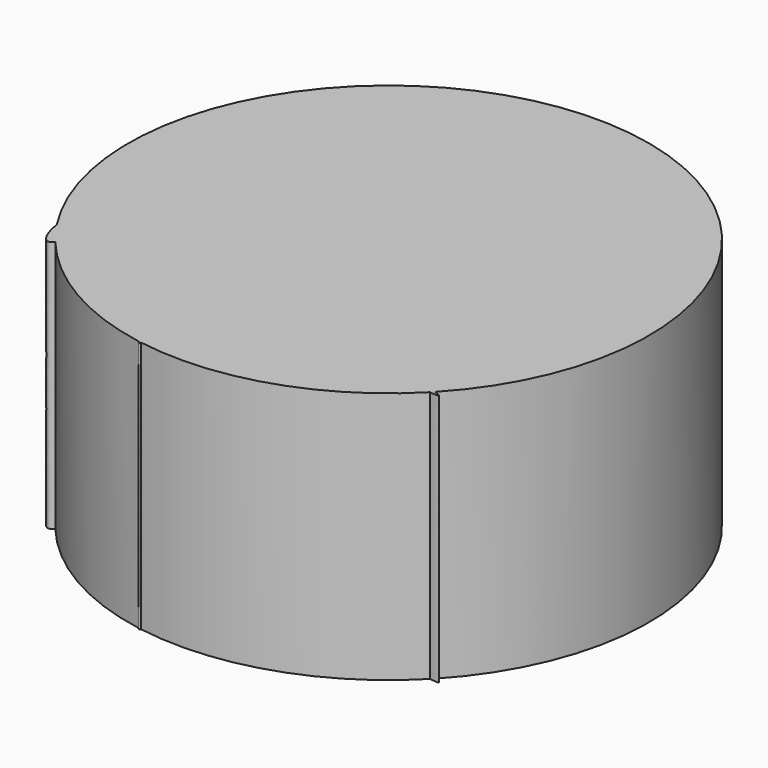
from build123d import *

# Parameters (mm, degrees)
F0_R     = 26.1934474338
F1_DEPTH = 25.4
F3_DEPTH = 25.4


with BuildPart() as f1:
    # F0 (on Top) → F1 (new body)
    with BuildSketch(Plane.XY):
        Circle(F0_R)
    extrude(amount=F1_DEPTH)

    # F2 (on Top) → F3 (join)
    with BuildSketch(Plane.XY):
        with BuildLine():
            add(Edge.make_bspline(
                [(0, 5.7371510193), (1.6267507168, 6.5317427394), (1.5843386729, 11.0500053178), (-18.7787446742, 30.5963069359), (1.0221837778, 10.0953171298), (-6.0703650923, 6.4711935479), (-5.7371528819, 5.7371510193)],
                knots=[0, 0, 0, 0, 0.1511009621, 0.424902673, 0.683029848, 0.8377276017, 0.8377276017, 0.8377276017, 0.8377276017], degree=3))
            Line((-5.7371528819, 5.7371510193), (0, 5.7371510193))
        make_face()
        with BuildLine():
            add(Edge.make_bspline(
                [(-5.7371528819, 5.7371510193), (-5.3876252175, 4.9671667193), (-1.7470222336, 4.8838122825), (0, 5.7371510193)],
                knots=[0.8377276017, 0.8377276017, 0.8377276017, 0.8377276017, 1, 1, 1, 1], degree=3))
            Line((-5.7371528819, 5.7371510193), (-5.7371528819, 4.7594812791))
            add(Edge.make_bspline(
                [(-4.2555169202, 3.7961523049), (-4.6271368693, 4.2676092134), (-5.1324220693, 4.5873594513), (-5.7371528819, 4.7594812791)],
                knots=[0, 0, 0, 0, 0.0403249023, 0.0403249023, 0.0403249023, 0.0403249023], degree=3))
            add(Edge.make_bspline(
                [(-5.7371528819, -0.1313178609), (-5.0377167443, -0.2417768077), (-3.1863723457, -0.3506748101), (-3.3498793663, 2.6472121512), (-4.2555169202, 3.7961523049)],
                knots=[0.8562834152, 0.8562834152, 0.8562834152, 0.8562834152, 0.9017282416, 1, 1, 1, 1], degree=3))
            Line((-5.7371528819, -0.1313178609), (-5.7371528819, -2.1932371892))
            add(Edge.make_bspline(
                [(-3.1325055752, -4.8068023752), (-2.8964414897, -3.6216016793), (-4.2171599325, -2.2319944033), (-5.7371528819, -2.1932371892)],
                knots=[0.8793176122, 0.8793176122, 0.8793176122, 0.8793176122, 1, 1, 1, 1], degree=3))
            Line((-3.1325055752, -4.8068023752), (-0.1550579909, -4.8068023752))
            add(Edge.make_bspline(
                [(2.8568834532, -4.8068023752), (2.4981673069, -4.0406447813), (0.9717753652, -4.0108397725), (-0.1550579909, -4.8068023752)],
                knots=[0.8885466284, 0.8885466284, 0.8885466284, 0.8885466284, 1, 1, 1, 1], degree=3))
            Line((2.8568834532, -4.8068023752), (5.4270369001, -4.8068023752))
            add(Edge.make_bspline(
                [(5.1070004252, 0.7479401206), (3.8398501756, 0.9918001557), (1.7682794649, 1.160584436), (4.1739226049, -3.5994525554), (5.4270369001, -4.8068023752)],
                knots=[0.7487514035, 0.7487514035, 0.7487514035, 0.7487514035, 0.8399311786, 1, 1, 1, 1], degree=3))
            add(Edge.make_bspline(
                [(4.889054848, 5.7371510193), (4.5975376375, 3.263116652), (4.6347225971, 1.4558693669), (5.1070004252, 0.7479401206)],
                knots=[0.8394506838, 0.8394506838, 0.8394506838, 0.8394506838, 0.9741904697, 0.9741904697, 0.9741904697, 0.9741904697], degree=3))
            Line((4.889054848, 5.7371510193), (0, 5.7371510193))
        make_face()
        with BuildLine():
            Line((0, 5.7371510193), (-5.7371528819, 5.7371510193))
            add(Edge.make_bspline(
                [(-5.7371528819, 5.7371510193), (-5.3876252175, 4.9671667193), (-1.7470222336, 4.8838122825), (0, 5.7371510193)],
                knots=[0.8377276017, 0.8377276017, 0.8377276017, 0.8377276017, 1, 1, 1, 1], degree=3))
        make_face()
        with BuildLine():
            add(Edge.make_bspline(
                [(-4.2555169202, 3.7961523049), (-4.6271368693, 4.2676092134), (-5.1324220693, 4.5873594513), (-5.7371528819, 4.7594812791)],
                knots=[0, 0, 0, 0, 0.0403249023, 0.0403249023, 0.0403249023, 0.0403249023], degree=3))
            Line((-5.7371528819, 4.7594812791), (-5.7371528819, -0.1313178609))
            add(Edge.make_bspline(
                [(-5.7371528819, -0.1313178609), (-5.0377167443, -0.2417768077), (-3.1863723457, -0.3506748101), (-3.3498793663, 2.6472121512), (-4.2555169202, 3.7961523049)],
                knots=[0.8562834152, 0.8562834152, 0.8562834152, 0.8562834152, 0.9017282416, 1, 1, 1, 1], degree=3))
        make_face()
        with BuildLine():
            Line((-5.7371528819, -0.1313178609), (-5.7371528819, 4.7594812791))
            add(Edge.make_bspline(
                [(-5.7371528819, 4.7594812791), (-7.0672055678, 5.1380482291), (-13.2464175654, 3.9931288798), (-24.0258726863, -8.8045876378), (-20.7617534642, -19.3483537757), (-18.1986372399, -11.9907759807), (-12.1603143643, 1.4470897092), (-6.8760904444, 0.0485496593), (-5.7371528819, -0.1313178609)],
                knots=[0.0403249023, 0.0403249023, 0.0403249023, 0.0403249023, 0.1290160082, 0.3429240679, 0.4728776808, 0.5849693808, 0.7822826352, 0.8562834152, 0.8562834152, 0.8562834152, 0.8562834152], degree=3))
        make_face()
        with BuildLine():
            add(Edge.make_bspline(
                [(6.1286271555, 0.5429710291), (7.0762360434, 1.0167670646), (11.0781985914, 6.645529309), (11.6659229825, 33.035172441), (6.1044874657, 13.7751740637), (5.0123059155, 6.7831523041), (4.889054848, 5.7371510193)],
                knots=[0.0411972981, 0.0411972981, 0.0411972981, 0.0411972981, 0.1880200779, 0.4976067702, 0.7824838158, 0.8394506838, 0.8394506838, 0.8394506838, 0.8394506838], degree=3))
            Line((4.889054848, 5.7371510193), (5.4270369001, 5.7371510193))
            Line((5.4270369001, 5.7371510193), (5.4270369001, 0.6849323422))
            add(Edge.make_bspline(
                [(6.1286271555, 0.5429710291), (5.8814162536, 0.5927902082), (5.6474452229, 0.6407864188), (5.4270369001, 0.6849323422)],
                knots=[0.7264412514, 0.7264412514, 0.7264412514, 0.7264412514, 0.7413205009, 0.7413205009, 0.7413205009, 0.7413205009], degree=3))
        make_face()
        with BuildLine():
            Line((5.4270369001, 5.7371510193), (4.889054848, 5.7371510193))
            add(Edge.make_bspline(
                [(4.889054848, 5.7371510193), (4.5975376375, 3.263116652), (4.6347225971, 1.4558693669), (5.1070004252, 0.7479401206)],
                knots=[0.8394506838, 0.8394506838, 0.8394506838, 0.8394506838, 0.9741904697, 0.9741904697, 0.9741904697, 0.9741904697], degree=3))
            add(Edge.make_bspline(
                [(5.4270369001, 0.6849323422), (5.3169619395, 0.706979426), (5.2102697103, 0.7280661937), (5.1070004252, 0.7479401206)],
                knots=[0.7413205009, 0.7413205009, 0.7413205009, 0.7413205009, 0.7487514035, 0.7487514035, 0.7487514035, 0.7487514035], degree=3))
            Line((5.4270369001, 0.6849323422), (5.4270369001, 5.7371510193))
        make_face()
        with BuildLine():
            add(Edge.make_bspline(
                [(5.4270369001, -4.8068023752), (6.5215892647, -5.86138104), (9.0814416321, -4.8797008059), (35.4559927911, 1.9981107546), (13.511505867, -0.8744141955), (7.0857452583, 0.3500877954), (6.1286271555, 0.5429710291)],
                knots=[0, 0, 0, 0, 0.1398146264, 0.4061072479, 0.6688337637, 0.7264412514, 0.7264412514, 0.7264412514, 0.7264412514], degree=3))
            add(Edge.make_bspline(
                [(5.4270369001, 0.465174322), (5.6235961964, 0.3823429293), (5.862735678, 0.4100276497), (6.1286271555, 0.5429710291)],
                knots=[0, 0, 0, 0, 0.0411972981, 0.0411972981, 0.0411972981, 0.0411972981], degree=3))
            Line((5.4270369001, 0.465174322), (5.4270369001, -4.8068023752))
        make_face()
        with BuildLine():
            add(Edge.make_bspline(
                [(5.4270369001, 0.465174322), (5.6235961964, 0.3823429293), (5.862735678, 0.4100276497), (6.1286271555, 0.5429710291)],
                knots=[0, 0, 0, 0, 0.0411972981, 0.0411972981, 0.0411972981, 0.0411972981], degree=3))
            add(Edge.make_bspline(
                [(6.1286271555, 0.5429710291), (5.8814162536, 0.5927902082), (5.6474452229, 0.6407864188), (5.4270369001, 0.6849323422)],
                knots=[0.7264412514, 0.7264412514, 0.7264412514, 0.7264412514, 0.7413205009, 0.7413205009, 0.7413205009, 0.7413205009], degree=3))
            Line((5.4270369001, 0.6849323422), (5.4270369001, 0.465174322))
        make_face()
        with BuildLine():
            add(Edge.make_bspline(
                [(5.1070004252, 0.7479401206), (5.1974656789, 0.6123356205), (5.3038952538, 0.5170670294), (5.4270369001, 0.465174322)],
                knots=[0.9741904697, 0.9741904697, 0.9741904697, 0.9741904697, 1, 1, 1, 1], degree=3))
            add(Edge.make_bspline(
                [(5.1070004252, 0.7479401206), (3.8398501756, 0.9918001557), (1.7682794649, 1.160584436), (4.1739226049, -3.5994525554), (5.4270369001, -4.8068023752)],
                knots=[0.7487514035, 0.7487514035, 0.7487514035, 0.7487514035, 0.8399311786, 1, 1, 1, 1], degree=3))
            Line((5.4270369001, -4.8068023752), (5.4270369001, 0.465174322))
        make_face()
        with BuildLine():
            add(Edge.make_bspline(
                [(-3.1325055752, -4.8068023752), (-2.8964414897, -3.6216016793), (-4.2171599325, -2.2319944033), (-5.7371528819, -2.1932371892)],
                knots=[0.8793176122, 0.8793176122, 0.8793176122, 0.8793176122, 1, 1, 1, 1], degree=3))
            Line((-5.7371528819, -2.1932371892), (-5.7371528819, -4.8068023752))
            Line((-5.7371528819, -4.8068023752), (-3.1325055752, -4.8068023752))
        make_face()
        with BuildLine():
            Line((-5.7371528819, -4.8068023752), (-5.7371528819, -2.1932371892))
            add(Edge.make_bspline(
                [(-5.7371528819, -2.1932371892), (-8.2702480143, -2.1286476065), (-15.2637567392, -10.4829218888), (1.1548852436, -34.9795429341), (-12.5198781123, -9.6692653362), (-3.4869213883, -6.5862084526), (-3.1325055752, -4.8068023752)],
                knots=[0, 0, 0, 0, 0.2011193337, 0.4556984268, 0.6981305988, 0.8793176122, 0.8793176122, 0.8793176122, 0.8793176122], degree=3))
            Line((-3.1325055752, -4.8068023752), (-5.7371528819, -4.8068023752))
        make_face()
        with BuildLine():
            add(Edge.make_bspline(
                [(-0.1550579909, -4.8068023752), (-1.8415339198, -5.9980803603), (-4.0234818259, -14.3814094127), (34.0148534446, -21.3494707734), (-1.5085435319, -12.7563424956), (3.3555713209, -5.8719161169), (2.8568834532, -4.8068023752)],
                knots=[0, 0, 0, 0, 0.1668067664, 0.4598523912, 0.7336039397, 0.8885466284, 0.8885466284, 0.8885466284, 0.8885466284], degree=3))
            Line((2.8568834532, -4.8068023752), (-0.1550579909, -4.8068023752))
        make_face()
        with BuildLine():
            Line((-0.1550579909, -4.8068023752), (2.8568834532, -4.8068023752))
            add(Edge.make_bspline(
                [(2.8568834532, -4.8068023752), (2.4981673069, -4.0406447813), (0.9717753652, -4.0108397725), (-0.1550579909, -4.8068023752)],
                knots=[0.8885466284, 0.8885466284, 0.8885466284, 0.8885466284, 1, 1, 1, 1], degree=3))
        make_face()
    extrude(amount=F3_DEPTH)


solid = f1.part
